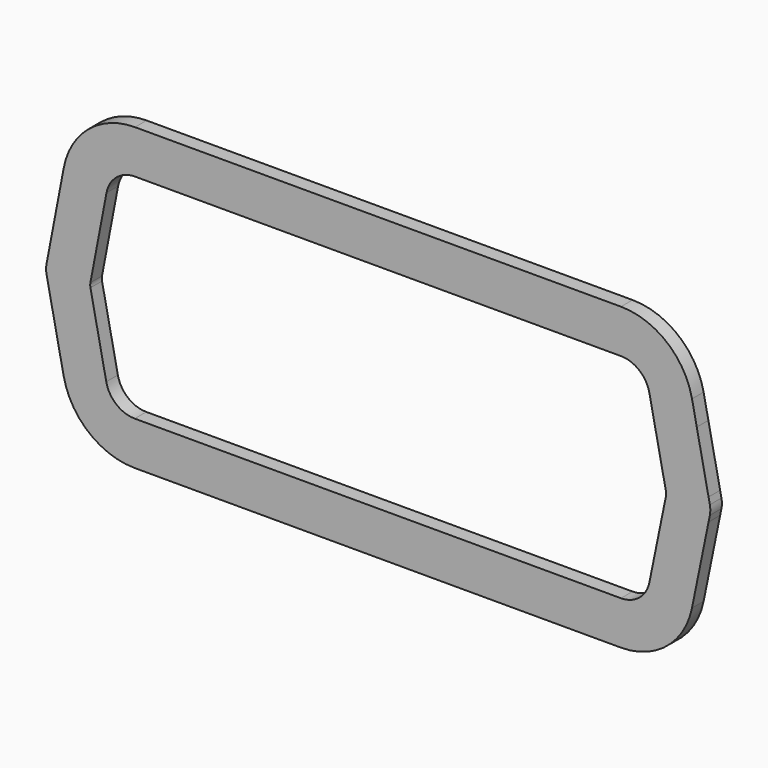
from build123d import *

# Parameters (mm, degrees)
F1_DEPTH = 5


with BuildPart() as f1:
    # F0 (on Front) → F1 (new body)
    with BuildSketch(Plane.XZ):
        with BuildLine():
            ThreePointArc((108.329796, 31.749), (99.646478, 46.114594), (83.834694, 51.75))
            Line((83.834694, 51.75), (-83.728488, 51.75))
            ThreePointArc((-83.728488, 51.75), (-99.662707, 46.013973), (-108.284997, 31.438053))
            Line((-108.284997, 31.438053), (-113.835649, 2.36316))
            Line((-113.835649, 2.36316), (-114.243014, 0.229341))
            ThreePointArc((-114.243014, 0.229341), (-114.38477, -1.321549), (-114.223364, -2.870517))
            Line((-114.223364, -2.870517), (-113.788979, -4.999))
            Line((-113.788979, -4.999), (-108.329796, -31.749))
            ThreePointArc((-108.329796, -31.749), (-99.646478, -46.114594), (-83.834694, -51.75))
            Line((-83.834694, -51.75), (83.834694, -51.75))
            ThreePointArc((83.834694, -51.75), (99.646478, -46.114594), (108.329796, -31.749))
            Line((108.329796, -31.749), (114.033828, -3.79924))
            Line((114.033828, -3.79924), (114.482718, -1.59968))
            ThreePointArc((114.482718, -1.59968), (114.644286, 0), (114.482718, 1.59968))
            Line((114.482718, 1.59968), (114.033828, 3.79924))
            Line((114.033828, 3.79924), (109.970639, 23.708868))
            Line((109.970639, 23.708868), (108.329796, 31.749))
        make_face()
        with BuildLine():
            Line((-83.728488, 36.75), (83.834694, 36.75))
            ThreePointArc((83.834694, 36.75), (90.159407, 34.495838), (93.632735, 28.7496))
            Line((93.632735, 28.7496), (99.336767, 0.79984))
            ThreePointArc((99.336767, 0.79984), (99.417551, 0), (99.336767, -0.79984))
            Line((99.336767, -0.79984), (93.632735, -28.7496))
            ThreePointArc((93.632735, -28.7496), (90.159407, -34.495838), (83.834694, -36.75))
            Line((83.834694, -36.75), (-83.834694, -36.75))
            ThreePointArc((-83.834694, -36.75), (-90.159407, -34.495838), (-93.632735, -28.7496))
            Line((-93.632735, -28.7496), (-99.091918, -1.9996))
            ThreePointArc((-99.091918, -1.9996), (-99.172622, -1.225116), (-99.101744, -0.449672))
            Line((-99.101744, -0.449672), (-93.551092, 28.625221))
            ThreePointArc((-93.551092, 28.625221), (-90.102175, 34.455589), (-83.728488, 36.75))
        make_face(mode=Mode.SUBTRACT)
    extrude(amount=F1_DEPTH)


solid = f1.part
